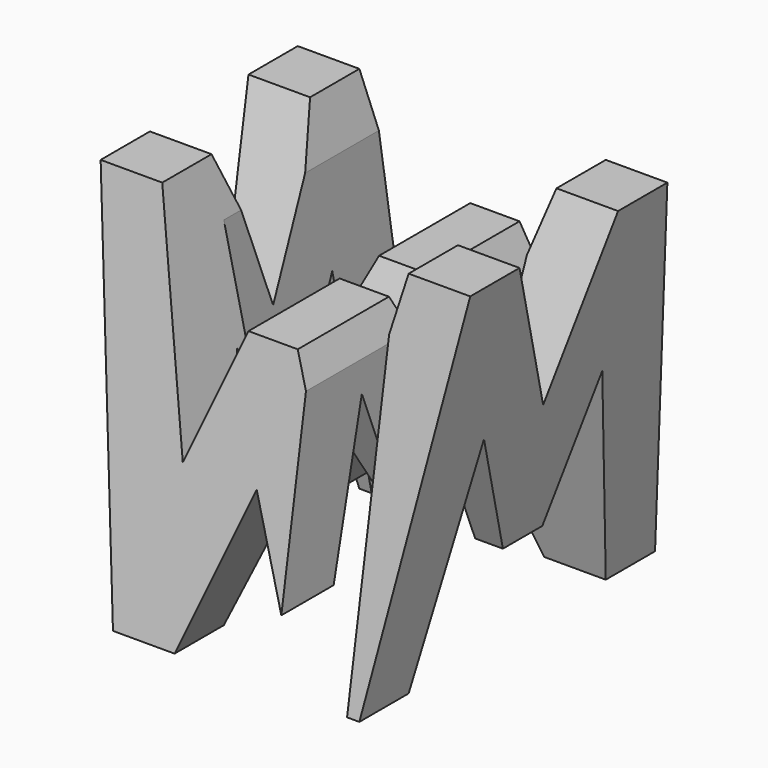
from build123d import *

# Parameters (mm, degrees)
F0_W      = 38.1
F0_H      = 38.1
F1_DEPTH  = 38.1
F6_DEPTH  = 38.1
F8_DEPTH  = 38.1
F9_W      = 7.62
F9_H      = 25.4
F10_DEPTH = 38.1


with BuildPart() as f1:
    # F0 (on Front) → F1 (new body)
    with BuildSketch(Plane.XZ):
        with Locations((19.05, 19.05)):
            Rectangle(F0_W, F0_H)
    extrude(amount=F1_DEPTH)

    # F5 (on offset) → F6 (cut)
    with BuildSketch(Plane.XZ.offset(38.1)):
        Polygon((19.05, 15.875), (12.7, 0), (25.4, 0), align=None)
        Polygon((0, 38.1), (0, 0), (6.35, 0), align=None)
        Polygon((38.1, 38.1), (31.75, 0), (38.1, 0), align=None)
        Polygon((31.75, 38.1), (6.35, 38.1), (11.43, 15.875), (16.51, 28.575), (21.59, 28.575), (26.67, 15.875), align=None)
    extrude(amount=-F6_DEPTH, mode=Mode.SUBTRACT)

    # F7 (on offset) → F8 (cut)
    with BuildSketch(Plane.YZ.offset(38.1)):
        Polygon((-38.1, 0), (-31.75, 38.1), (-38.1, 38.1), align=None)
        Polygon((-12.7, 38.1), (-25.4, 38.1), (-19.05, 22.225), align=None)
        Polygon((0, 38.1), (-6.35, 38.1), (0, 0), align=None)
        Polygon((-26.67, 22.225), (-31.75, 0), (-6.35, 0), (-11.43, 22.225), (-16.51, 9.525), (-21.59, 9.525), align=None)
    extrude(amount=-F8_DEPTH, mode=Mode.SUBTRACT)

    # F9 (on offset) → F10 (cut)
    with BuildSketch(Plane.XY.offset(38.1)):
        with Locations((11.43, -12.7)):
            Rectangle(F9_W, F9_H)
        with Locations((26.67, -25.4)):
            Rectangle(F9_W, F9_H)
    extrude(amount=-F10_DEPTH, mode=Mode.SUBTRACT)


solid = f1.part
